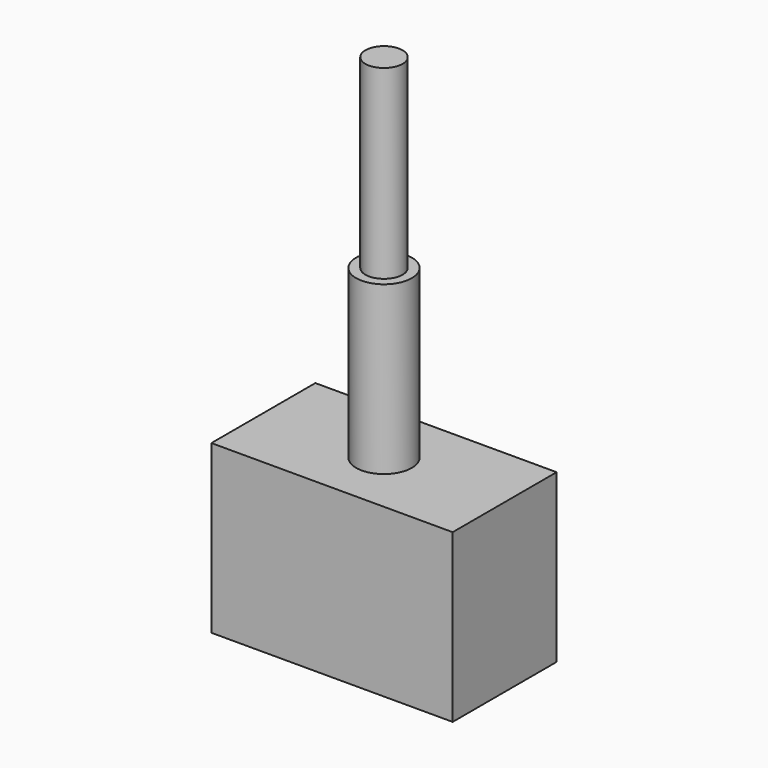
from build123d import *

# Parameters (mm, degrees)
F0_W     = 13
F0_H     = 7
F1_DEPTH = 9
F2_R     = 1.5
F3_DEPTH = 9
F4_R     = 1
F5_DEPTH = 10


with BuildPart() as f1:
    # F0 (on Top) → F1 (new body)
    with BuildSketch(Plane.XY):
        Rectangle(F0_W, F0_H)
    extrude(amount=F1_DEPTH)

    # F2 (on face) → F3 (join)
    with BuildSketch(Plane.XY.offset(9)):
        Circle(F2_R)
    extrude(amount=F3_DEPTH)

    # F4 (on face) → F5 (join)
    with BuildSketch(Plane.XY.offset(18)):
        Circle(F4_R)
    extrude(amount=F5_DEPTH)


solid = f1.part
